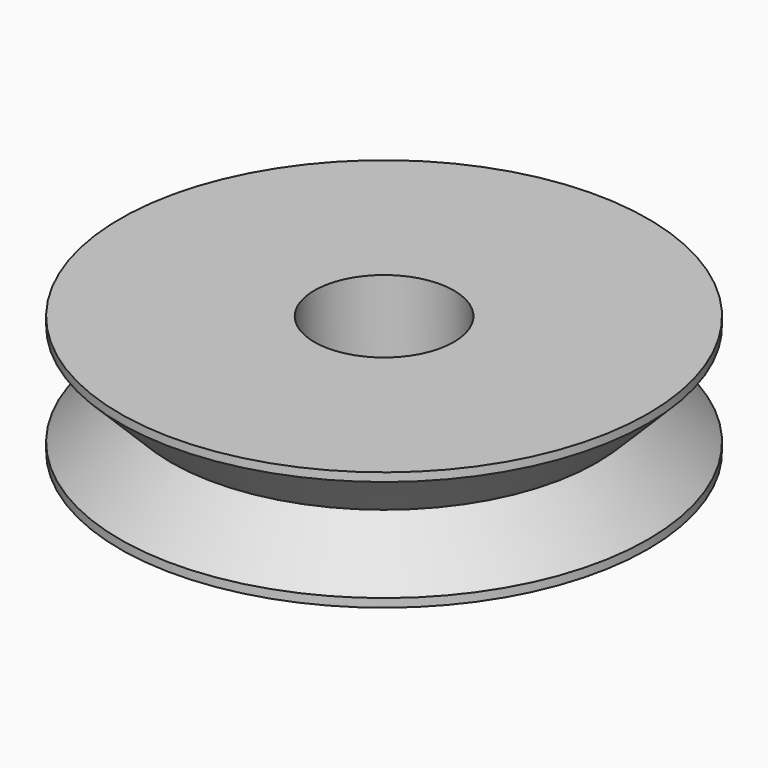
from build123d import *


with BuildPart() as part:
    # Sketch → Revolution (revolve)
    with BuildSketch(Plane.XZ):
        Polygon((4.1, 3.5), (15.5, 3.5), (15.5, 3), (12.5, 0), (15.5, -3), (15.5, -3.5), (4.1, -3.5), align=None)
    revolve(axis=Axis((0, 0, 0), (0, 0, 1)))


solid = part.part
